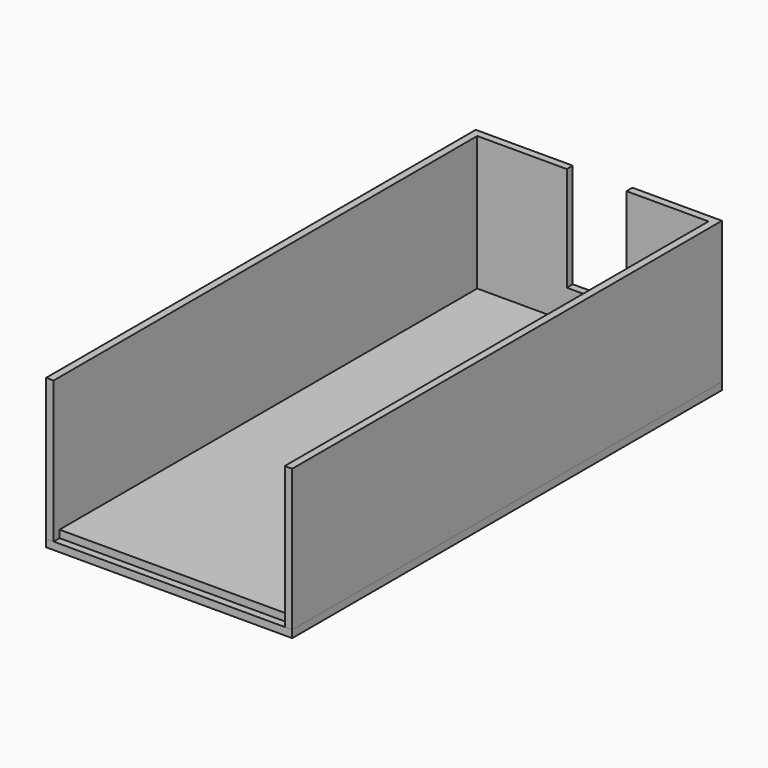
from build123d import *

# Parameters (mm, degrees)
SKETCH_W             = 33
SKETCH_H             = 72
PAD_DEPTH            = 20
SKETCH001_W          = 31
SKETCH001_H          = 70
POCKET_DEPTH         = 19
SKETCH002_W          = 8
SKETCH002_H          = 14.003113
POCKET001_DEPTH      = 5
SKETCH003_W          = 31
SKETCH003_H          = 19
POCKET002_DEPTH      = 5
SKETCH004_W          = 33
SKETCH004_H          = 72
PAD001_DEPTH         = 1
SKETCH005_W          = 31
SKETCH005_H          = 70
PAD002_DEPTH         = 2
SKETCH006_W          = 6
SKETCH006_H          = 5
POCKET003_DEPTH      = 0.001
POCKET003_DEPTH_BACK = -2.001
SKETCH007_R          = 2.5
POCKET004_DEPTH      = 2.001


with BuildPart() as body:
    # Sketch → Pad (new body)
    with BuildSketch(Plane.XY):
        Rectangle(SKETCH_W, SKETCH_H)
    extrude(amount=PAD_DEPTH)

    # Sketch001 → Pocket (cut)
    with BuildSketch(Plane.XY.offset(1)):
        Rectangle(SKETCH001_W, SKETCH001_H)
    extrude(amount=POCKET_DEPTH, mode=Mode.SUBTRACT)

    # Sketch002 → Pocket001 (cut)
    with BuildSketch(Plane.XZ.offset(-36)):
        with Locations((0.5, 13.001556)):
            Rectangle(SKETCH002_W, SKETCH002_H)
    extrude(amount=POCKET001_DEPTH, mode=Mode.SUBTRACT)

    # Sketch003 → Pocket002 (cut)
    with BuildSketch(Plane.XZ.offset(35)):
        with Locations((0, 10.5)):
            Rectangle(SKETCH003_W, SKETCH003_H)
    extrude(amount=POCKET002_DEPTH, mode=Mode.SUBTRACT)


with BuildPart() as cover:
    # Sketch004 → Pad001 (new body)
    with BuildSketch(Plane.XY):
        Rectangle(SKETCH004_W, SKETCH004_H)
    extrude(amount=PAD001_DEPTH)

    # Sketch005 → Pad002 (join)
    with BuildSketch(Plane.XY):
        Rectangle(SKETCH005_W, SKETCH005_H)
    extrude(amount=PAD002_DEPTH)

    # Sketch006 → Pocket003 (cut, two sides)
    with BuildSketch(Plane.XY) as pocket003_sk:
        with Locations((1.5, 12.5)):
            Rectangle(SKETCH006_W, SKETCH006_H)
    extrude(amount=-POCKET003_DEPTH, mode=Mode.SUBTRACT)
    extrude(pocket003_sk.sketch, amount=-POCKET003_DEPTH_BACK, mode=Mode.SUBTRACT)

    # Sketch007 → Pocket004 (cut, through all)
    with BuildSketch(Plane.XY):
        with Locations((8.5, 20)):
            Circle(SKETCH007_R)
    extrude(amount=POCKET004_DEPTH, mode=Mode.SUBTRACT)


solid = Compound([body.part, cover.part])
